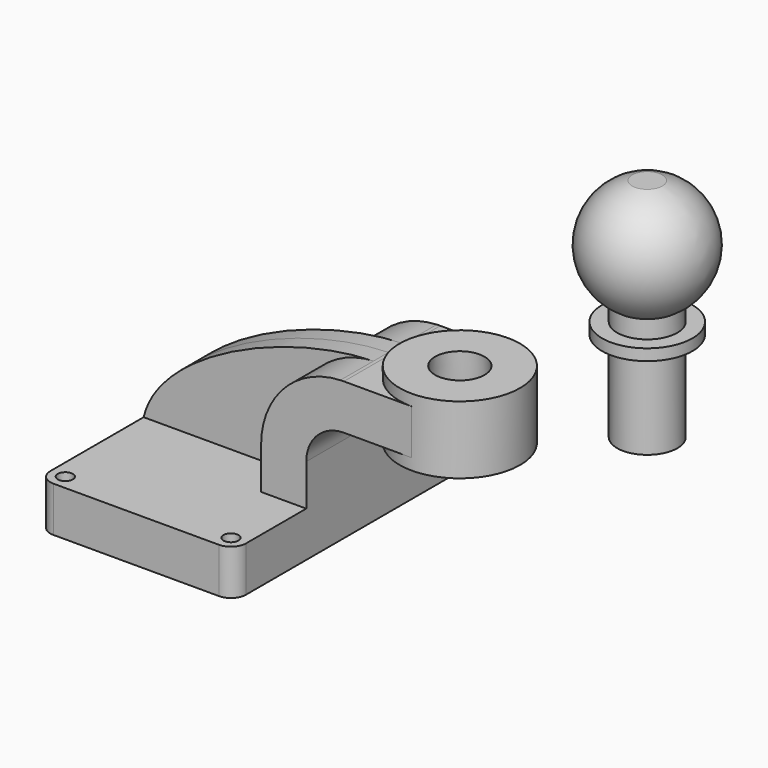
from build123d import *

# Parameters (mm, degrees)
F1_DEPTH = 63.5
F0_W     = 25.4
F0_H     = 19.05
F2_DEPTH = 25.4
F3_DEPTH = 7.9375
F5_R     = 6.35
F6_R     = 10.4277026359
F7_DEPTH = 76.201
F7_TAPER = -3
F9_D     = 6.35


with BuildPart() as f1:
    # F0 (on Front) → F1 (new body, symmetric)
    with BuildSketch(Plane.XZ):
        Polygon((-41.275, -8.4803864146), (41.275, -8.4803864146), (41.275, 10.5696135854), (22.225, 10.5696135854), (-41.275, 10.5696135854), align=None)
    extrude(amount=F1_DEPTH, both=True)

    # F0 (on Front) → F2 (join, symmetric)
    with BuildSketch(Plane.XZ):
        with BuildLine():
            Line((22.225, 10.5696135854), (41.275, 10.5696135854))
            Line((41.275, 10.5696135854), (41.275, 28.0448135854))
            ThreePointArc((41.275, 28.0448135854), (45.9246798487, 39.2701337367), (57.15, 43.9198135854))
            Line((57.15, 43.9198135854), (60.325, 43.9198135854))
            Line((60.325, 43.9198135854), (60.325, 62.9698135854))
            Line((60.325, 62.9698135854), (57.15, 62.9698135854))
            add(Edge.make_bspline(
                [(55.670826569, 62.9384759177), (56.1664980149, 62.9528020829), (56.6596018531, 62.963261742), (57.15, 62.9698135854)],
                knots=[110.0605103046, 110.0605103046, 110.0605103046, 110.0605103046, 111.5045361635, 111.5045361635, 111.5045361635, 111.5045361635], degree=3))
            ThreePointArc((55.670826569, 62.9384759177), (31.936751924, 52.2118933937), (22.225, 28.0448135854))
            Line((22.225, 28.0448135854), (22.225, 10.5696135854))
        make_face()
        with Locations((73.025, 53.4448135854)):
            Rectangle(F0_W, F0_H)
    extrude(amount=F2_DEPTH, both=True)

    # F0 (on Front) → F3 (join, symmetric)
    with BuildSketch(Plane.XZ):
        with BuildLine():
            add(Edge.make_bspline(
                [(-41.275, 10.5696135854), (-34.8028083987, 38.2935172536), (17.8918270147, 61.8465667659), (55.670826569, 62.9384759177)],
                knots=[0, 0, 0, 0, 110.0605103046, 110.0605103046, 110.0605103046, 110.0605103046], degree=3))
            Line((-41.275, 10.5696135854), (22.225, 10.5696135854))
            Line((22.225, 10.5696135854), (22.225, 28.0448135854))
            ThreePointArc((22.225, 28.0448135854), (31.936751924, 52.2118933937), (55.670826569, 62.9384759177))
        make_face()
    extrude(amount=F3_DEPTH, both=True)

    # F0 (on Front) → F4 (revolve)
    with BuildSketch(Plane.XZ):
        Polygon((85.725, 62.9698135854), (85.725, 43.9198135854), (85.725, 39.1446135854), (111.125, 39.1446135854), (111.125, 67.7196135854), (85.725, 67.7196135854), align=None)
    revolve(axis=Axis((85.725, 0, 53.4321135854), (0, 0, 1)))

    # F5
    f5_edges = [f1.edges().sort_by_distance(p)[0] for p in [
        (-41.275, -63.5, 1.044614),
        (41.275, -63.5, 1.044614),
        (41.275, 63.5, 1.044614),
        (-41.275, 63.5, 1.044614),
    ]]
    fillet(f5_edges, radius=F5_R)

    # F6 (on face) → F7 (cut, through all)
    with BuildSketch(Plane.XY.offset(67.7196135854)):
        with Locations((85.725, 0)):
            Circle(F6_R)
    extrude(amount=-F7_DEPTH, taper=F7_TAPER, mode=Mode.SUBTRACT)

    # F9 (through all)
    with Locations(Plane.XY.offset(10.5696135854)):
        with Locations((34.9249977589, -57.15), (-34.925, -57.15), (35.7827192911, 57.146779417), (-34.0672784677, 57.146779417)):
            Hole(F9_D / 2)


with BuildPart() as f11:
    # F10 (on Front) → F11 (revolve)
    with BuildSketch(Plane.XZ):
        with BuildLine():
            Line((164.7552926287, 162.2107950438), (164.7552926287, 66.9607950438))
            Line((164.7552926287, 66.9607950438), (177.4552926287, 66.9607950438))
            Line((177.4552926287, 66.9607950438), (177.4552926287, 105.0607950438))
            Line((177.4552926287, 105.0607950438), (183.8052926287, 105.0607950438))
            Line((183.8052926287, 105.0607950438), (183.8052926287, 109.8232950438))
            Line((183.8052926287, 109.8232950438), (177.4552926287, 109.8232950438))
            Line((177.4552926287, 109.8232950438), (177.4552926287, 117.3624957718))
            ThreePointArc((177.4552926287, 117.3624957718), (189.1185459397, 141.8875703048), (171.1052926287, 162.2107950438))
            Line((171.1052926287, 162.2107950438), (164.7552926287, 162.2107950438))
        make_face()
    revolve(axis=Axis((164.7552926287, 0, 114.5857950438), (0, 0, -1)))


solid = Compound([f1.part, f11.part])
